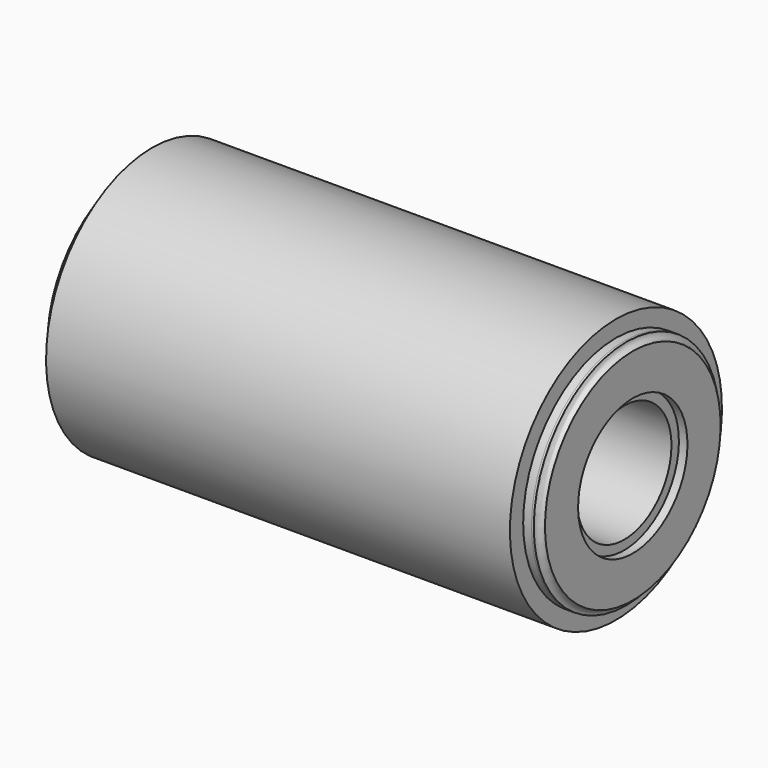
from build123d import *


with BuildPart() as f1:
    # F0 (on Front) → F1 (revolve)
    with BuildSketch(Plane.XZ):
        Polygon((-184.15, 88.9), (-184.15, 52.3875), (-69.85, 52.3875), (-69.85, 48.815625), (-63.5, 48.815625), (-63.5, 76.2), (0, 76.2), (63.5, 76.2), (63.5, 48.815625), (69.85, 48.815625), (69.85, 52.3875), (184.15, 52.3875), (184.15, 88.9), (177.8, 88.9), (177.8, 101.6), (0, 101.6), (-177.8, 101.6), (-177.8, 88.9), align=None)
    revolve(axis=Axis((-170.919751, 0, 0), (-1, 0, 0)))


with BuildPart() as f2:
    # F0 (on Front) → F2 (revolve)
    with BuildSketch(Plane.XZ):
        Polygon((-184.15, 52.3875), (-184.15, 45.24375), (-69.85, 45.24375), (-69.85, 48.815625), (-69.85, 52.3875), align=None)
        with BuildLine():
            Line((-190.7032, 52.3875), (-184.15, 52.3875))
            Line((-184.15, 52.3875), (-184.15, 88.9))
            Line((-184.15, 88.9), (-185.9407, 88.9))
            ThreePointArc((-185.9407, 88.9), (-187.335604, 85.532404), (-190.7032, 84.1375))
            Line((-190.7032, 84.1375), (-190.7032, 52.3875))
        make_face()
        Polygon((69.85, 52.3875), (69.85, 48.815625), (69.85, 45.24375), (184.15, 45.24375), (184.15, 52.3875), align=None)
        with BuildLine():
            Line((185.9407, 88.9), (184.15, 88.9))
            Line((184.15, 88.9), (184.15, 52.3875))
            Line((184.15, 52.3875), (190.7032, 52.3875))
            Line((190.7032, 52.3875), (190.7032, 84.1375))
            ThreePointArc((190.7032, 84.1375), (187.335604, 85.532404), (185.9407, 88.9))
        make_face()
    revolve(axis=Axis((-170.919751, 0, 0), (-1, 0, 0)))


solid = Compound([f1.part, f2.part])
